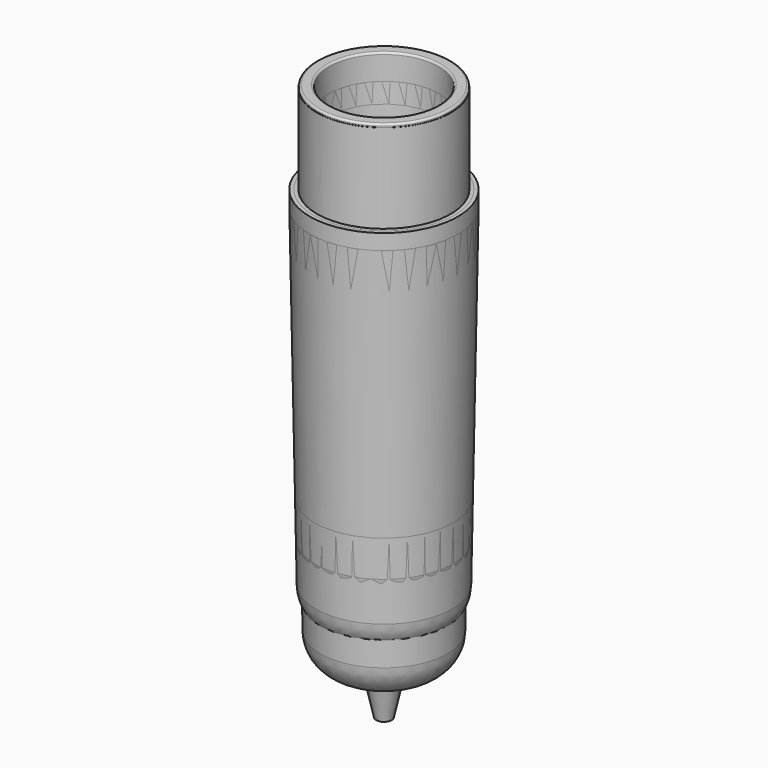
from build123d import *


with BuildPart() as f4:
    # F3 (on Front) → F4 (revolve)
    with BuildSketch(Plane.XZ):
        with BuildLine():
            Line((-7.3, 11.9), (-8.35, 11.9))
            ThreePointArc((-8.35, 11.9), (-8.526777, 11.826777), (-8.6, 11.65))
            Line((-8.6, 11.65), (-8.6, 11.5))
            Line((-8.6, 11.5), (-8.626, 11.5))
            Line((-8.626, 11.5), (-8.626, 0))
            Line((-8.626, 0), (-9.55, 0))
            Line((-9.55, 0), (-9.55, -2))
            Line((-9.55, -2), (-8.891993, -39.697169))
            ThreePointArc((-8.891993, -39.697169), (-8.166708, -42.069491), (-6.2945, -43.697))
            Line((-6.2945, -43.697), (-3.500277, -45))
            Line((-3.500277, -45), (-2.911058, -45))
            ThreePointArc((-2.911058, -45), (-2.285135, -45.220116), (-1.934762, -45.78356))
            Line((-1.934762, -45.78356), (-1, -50))
            Line((-1, -50), (0, -50))
            Line((0, -50), (0, -43.4757))
            Line((0, -43.4757), (-2.23, -43.4757))
            ThreePointArc((-2.23, -43.4757), (-2.488844, -43.441619), (-2.730044, -43.3417))
            Line((-2.730044, -43.3417), (-4.190589, -42.498355))
            ThreePointArc((-4.190589, -42.498355), (-5.275383, -41.422904), (-5.69, -39.952712))
            Line((-5.69, -39.952712), (-6.356674, -1.759))
            ThreePointArc((-6.356674, -1.759), (-6.429394, -0.990398), (-6.61897, -0.242))
            Line((-6.61897, -0.242), (-6.81, 0.325))
            ThreePointArc((-6.81, 0.325), (-6.885867, 0.624458), (-6.915, 0.932))
            Line((-6.915, 0.932), (-7.05, 8.6))
            Line((-7.05, 8.6), (-7.05, 11.65))
            ThreePointArc((-7.05, 11.65), (-7.123223, 11.826777), (-7.3, 11.9))
        make_face()
    revolve(axis=Axis((0, 0, -46.73785), (0, 0, -1)))


with BuildPart() as f7:
    # F6 (on Front) → F7 (revolve)
    with BuildSketch(Plane.XZ):
        with BuildLine():
            Line((0, -55), (0, -48.476461))
            Line((0, -48.476461), (-1.65364, -48.505326))
            ThreePointArc((-1.65364, -48.505326), (-1.921497, -48.473619), (-2.171137, -48.371478))
            Line((-2.171137, -48.371478), (-4.612758, -46.961642))
            ThreePointArc((-4.612758, -46.961642), (-5.697552, -45.886191), (-6.112169, -44.415999))
            Line((-6.112169, -44.415999), (-6.866291, -1.212386))
            ThreePointArc((-6.866291, -1.212386), (-6.868944, -1.071751), (-6.871992, -0.931124))
            Line((-6.871992, -0.931124), (-6.911841, 0.795139))
            ThreePointArc((-6.911841, 0.795139), (-6.914813, 0.932004), (-6.91741, 1.068876))
            Line((-6.91741, 1.068876), (-7.05, 8.6))
            Line((-7.05, 8.6), (-7.05, 11.65))
            ThreePointArc((-7.05, 11.65), (-7.123223, 11.826777), (-7.3, 11.9))
            Line((-7.3, 11.9), (-8.35, 11.9))
            ThreePointArc((-8.35, 11.9), (-8.526777, 11.826777), (-8.6, 11.65))
            Line((-8.6, 11.65), (-8.6, 11.5))
            Line((-8.6, 11.5), (-8.626, 11.5))
            Line((-8.626, 11.5), (-8.626, 0))
            Line((-8.626, 0), (-9.55, 0))
            Line((-9.55, 0), (-9.55, -2))
            Line((-9.55, -2), (-8.802363, -44.8321))
            ThreePointArc((-8.802363, -44.8321), (-8.077078, -47.204422), (-6.204869, -48.831931))
            Line((-6.204869, -48.831931), (-3.7, -50))
            Line((-3.7, -50), (-2.911058, -50))
            ThreePointArc((-2.911058, -50), (-2.285135, -50.220116), (-1.934762, -50.78356))
            Line((-1.934762, -50.78356), (-1, -55))
            Line((-1, -55), (0, -55))
        make_face()
    revolve(axis=Axis((0, 0, -46.73785), (0, 0, -1)))


with BuildPart() as f9:
    # F8 (on Front) → F9 (revolve)
    with BuildSketch(Plane.XZ):
        with BuildLine():
            ThreePointArc((-7.05, 11.65), (-7.123223, 11.826777), (-7.3, 11.9))
            Line((-7.3, 11.9), (-8.35, 11.9))
            ThreePointArc((-8.35, 11.9), (-8.526777, 11.826777), (-8.6, 11.65))
            Line((-8.6, 11.65), (-8.6, 11.5))
            Line((-8.6, 11.5), (-8.626, 11.5))
            Line((-8.626, 11.5), (-8.626, 0))
            Line((-8.626, 0), (-9.084834, 0))
            Line((-9.084834, 0), (-8.210191, -50.108241))
            ThreePointArc((-8.210191, -50.108241), (-7.484906, -52.480563), (-5.612698, -54.108072))
            Line((-5.612698, -54.108072), (-3.7, -55))
            Line((-3.7, -55), (-2.911058, -55))
            ThreePointArc((-2.911058, -55), (-2.285135, -55.220116), (-1.934762, -55.78356))
            Line((-1.934762, -55.78356), (-1, -60))
            Line((-1, -60), (0, -60))
            Line((0, -60), (0, -53.477223))
            Line((0, -53.477223), (-2.952927, -53.528766))
            ThreePointArc((-2.952927, -53.528766), (-3.220784, -53.49706), (-3.470423, -53.394919))
            Line((-3.470423, -53.394919), (-4.005785, -53.085791))
            ThreePointArc((-4.005785, -53.085791), (-5.090579, -52.010341), (-5.505196, -50.540149))
            Line((-5.505196, -50.540149), (-6.356777, -1.753094))
            ThreePointArc((-6.356777, -1.753094), (-6.42912, -0.988474), (-6.617714, -0.243954))
            Line((-6.617714, -0.243954), (-6.810631, 0.328645))
            ThreePointArc((-6.810631, 0.328645), (-6.886042, 0.626305), (-6.915, 0.932))
            Line((-6.915, 0.932), (-7.05, 8.6))
            Line((-7.05, 8.6), (-7.05, 11.65))
        make_face()
    revolve(axis=Axis((0, 0, -51.738231), (0, 0, -1)))


solid = Compound([f4.part, f7.part, f9.part])
